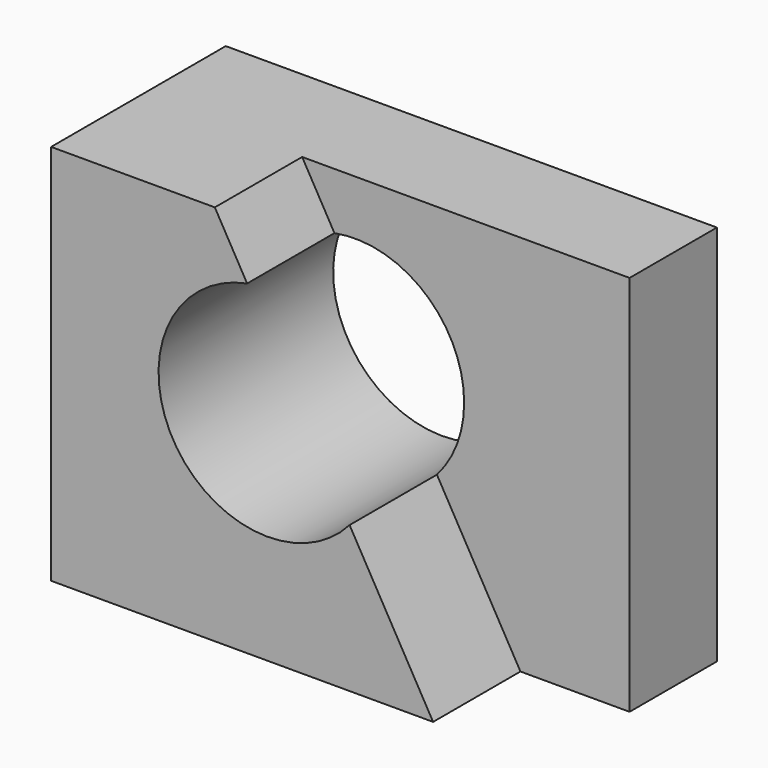
from build123d import *

# Parameters (mm, degrees)
F0_W     = 57.15
F0_H     = 44.45
F1_DEPTH = 25.4
F3_DEPTH = 12.7
F5_DEPTH = 25.4


with BuildPart() as f1:
    # F0 (on Front) → F1 (new body)
    with BuildSketch(Plane.XZ):
        with Locations((-28.575, 22.225)):
            Rectangle(F0_W, F0_H)
    extrude(amount=F1_DEPTH)

    # F2 (on face) → F3 (cut)
    with BuildSketch(Plane.XZ.offset(25.4)):
        Polygon((0, 44.45), (-38.1, 44.45), (-12.7, 0), (0, 0), align=None)
    extrude(amount=-F3_DEPTH, mode=Mode.SUBTRACT)

    # F4 (on face) → F5 (cut)
    with BuildSketch(Plane.XZ.offset(25.4)):
        with BuildLine():
            ThreePointArc((-22.418103, 17.00668), (-20.067822, 20.914199), (-19.249219, 25.4))
            ThreePointArc((-19.249219, 25.4), (-23.858858, 35.18959), (-34.341513, 37.872647))
            Line((-34.341513, 37.872647), (-22.418103, 17.00668))
        make_face()
        with BuildLine():
            Line((-22.418103, 17.00668), (-34.341513, 37.872647))
            ThreePointArc((-34.341513, 37.872647), (-42.975907, 19.099035), (-22.418103, 17.00668))
        make_face()
    extrude(amount=-F5_DEPTH, mode=Mode.SUBTRACT)


solid = f1.part
